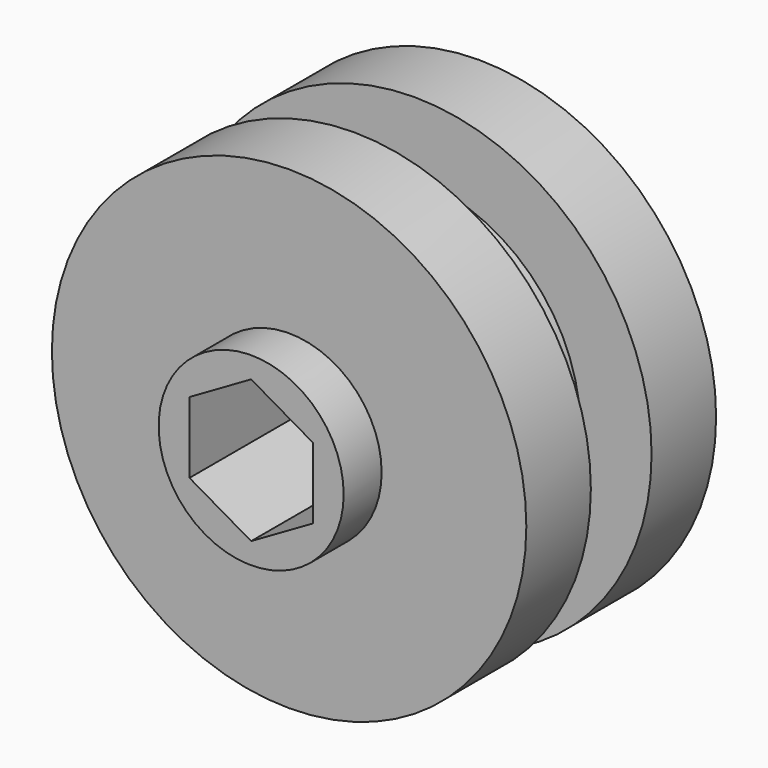
from build123d import *

# Parameters (mm, degrees)
F3_DEPTH = 6
F4_SIZE2 = 1
F4_SIZE  = 2
F2_R     = 3.9
F5_DEPTH = 2


with BuildPart() as f1:
    # F0 (on Right) → F1 (revolve)
    with BuildSketch(Plane.YZ):
        Polygon((1.6, 6.9834658491), (0, 6.9834658491), (-1.6, 6.9834658491), (-1.6, 9.9834658491), (-5, 9.9834658491), (-5, -0.0165341509), (5, -0.0165341509), (5, 9.9834658491), (1.6, 9.9834658491), align=None)
    revolve(axis=Axis((0, 0, -0.0165341509), (0, 1, 0)))

    # F2 (on face) → F3 (cut)
    with BuildSketch(Plane.XZ.offset(5)):
        Polygon((2.6, -1.5011106999), (2.6, 1.5011106999), (0, 3.0022213998), (-2.6, 1.5011106999), (-2.6, -1.5011106999), (0, -3.0022213998), align=None)
    extrude(amount=-F3_DEPTH, mode=Mode.SUBTRACT)

    # F4
    f4_edges = [f1.edges().sort_by_distance(p)[0] for p in [
        (0, -1.6, -7.016534),
    ]]
    f4_side = f1.faces().sort_by_distance((0, -1.6, -7.299377))[0]
    chamfer(f4_edges, length=F4_SIZE, length2=F4_SIZE2, reference=f4_side)

    # F2 (on face) → F5 (join)
    with BuildSketch(Plane.XZ.offset(5)):
        Circle(F2_R)
        Polygon((0, 3.0022213998), (2.6, 1.5011106999), (2.6, -1.5011106999), (0, -3.0022213998), (-2.6, -1.5011106999), (-2.6, 1.5011106999), align=None, mode=Mode.SUBTRACT)
    extrude(amount=F5_DEPTH)


solid = f1.part
